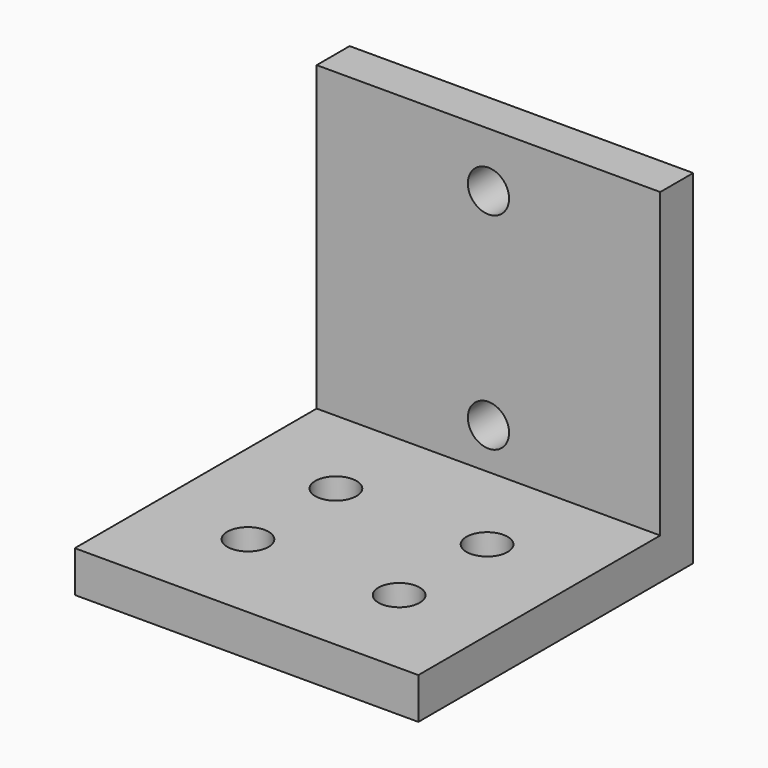
from build123d import *

# Parameters (mm, degrees)
F0_W     = 25
F0_H     = 25
F1_DEPTH = 3
F3_D     = 3
F3_DEPTH = 15
F4_W     = 25
F4_H     = 3
F5_DEPTH = 22
F7_D     = 3


with BuildPart() as f1:
    # F0 (on Top) → F1 (new body)
    with BuildSketch(Plane.XY):
        Rectangle(F0_W, F0_H)
    extrude(amount=F1_DEPTH)

    # F3
    with Locations(Plane.XY.offset(3)):
        with Locations((5.5, 2.5), (5.5, -5.5), (-5.5, -5.5), (-5.5, 2.5)):
            Hole(F3_D / 2, depth=F3_DEPTH)

    # F4 (on face) → F5 (join)
    with BuildSketch(Plane.XY.offset(3)):
        with Locations((0, 11)):
            Rectangle(F4_W, F4_H)
    extrude(amount=F5_DEPTH)

    # F7 (through all)
    with Locations(Plane.XZ.offset(-9.5)):
        with Locations((0, 21), (0, 6)):
            Hole(F7_D / 2)


solid = f1.part
